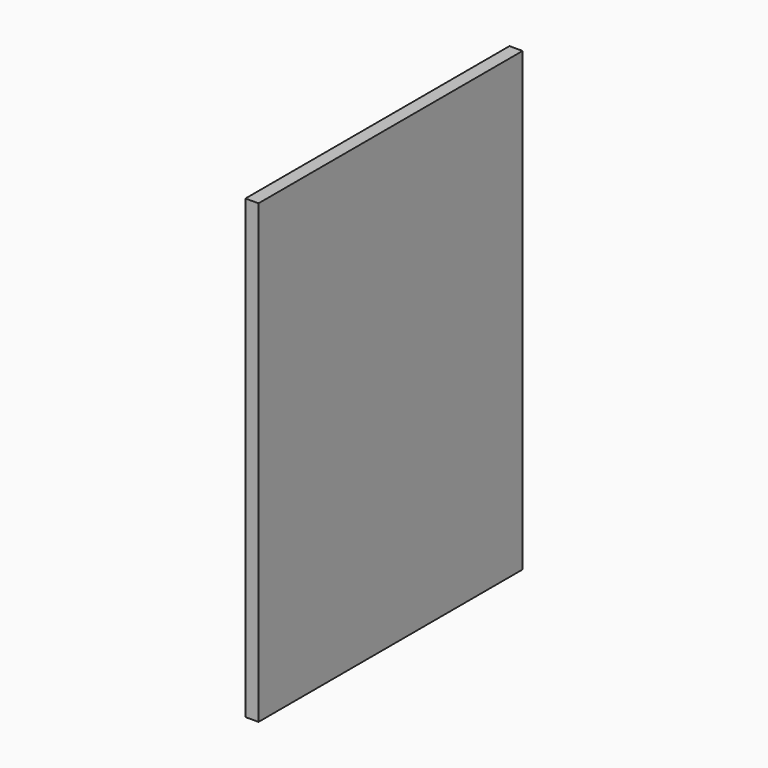
from build123d import *

# Parameters (mm, degrees)
F0_W      = 762
F0_H      = 730.25
F1_DEPTH  = 30.226
F1_FACE_W = 30.226
F1_FACE_H = 762
F2_DEPTH  = 323.85


with BuildPart() as f1:
    # F0 (on Right) → F1 (new body)
    with BuildSketch(Plane.YZ):
        Rectangle(F0_W, F0_H)
    extrude(amount=F1_DEPTH)

    # F1_face (on face) → F2 (join)
    with BuildSketch(Plane(origin=(15.113, 0, -365.125), x_dir=(1, 0, 0), z_dir=(0, 0, -1))):
        Rectangle(F1_FACE_W, F1_FACE_H)
    extrude(amount=F2_DEPTH)


solid = f1.part
